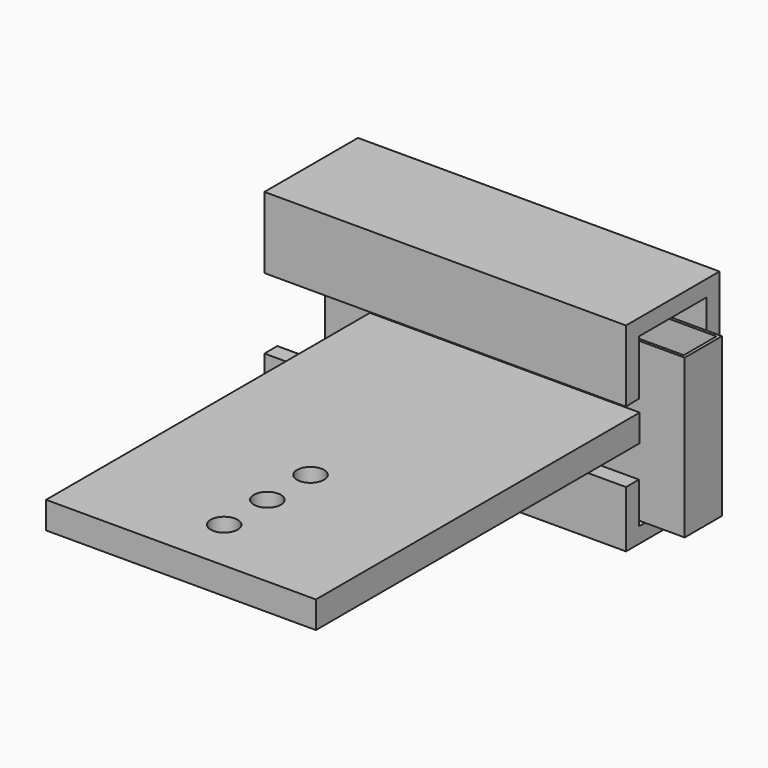
from build123d import *

# Parameters (mm, degrees)
F0_W          = 15
F0_H          = 22.5
F1_DEPTH      = 1.5
F2_W          = 5
F2_H          = 2.587675
F2_W_2        = 4.650861
F2_H_2        = 2.27039
F3_DEPTH      = 5
F3_DEPTH_BACK = 3.8
F4_R          = 0.75
F5_DEPTH      = 25
F7_DEPTH      = 7.5
F7_DEPTH_BACK = 12.6


with BuildPart() as f1:
    # F0 (on Top) → F1 (new body)
    with BuildSketch(Plane.XY):
        with Locations((0, -5.76314)):
            Rectangle(F0_W, F0_H)
    extrude(amount=F1_DEPTH)

    # F2 (on Top) → F3 (join, two sides)
    with BuildSketch(Plane.XY) as f3_sk:
        with Locations((7.5, 6.780697)):
            Rectangle(F2_W, F2_H)
        with Locations((7.50068, 6.777079)):
            Rectangle(F2_W_2, F2_H_2, mode=Mode.SUBTRACT)
        with Locations((-7.5, 6.780697)):
            Rectangle(F2_W, F2_H)
        with Locations((-7.50068, 6.777079)):
            Rectangle(F2_W_2, F2_H_2, mode=Mode.SUBTRACT)
    extrude(amount=F3_DEPTH)
    extrude(f3_sk.sketch, amount=-F3_DEPTH_BACK)

    # F4 (on Top) → F5 (cut)
    with BuildSketch(Plane.XY):
        with Locations((0, -14.01314)):
            Circle(F4_R)
        with Locations((0, -11.01314)):
            Circle(F4_R)
        with Locations((0, -8.01314)):
            Circle(F4_R)
    extrude(amount=F5_DEPTH, mode=Mode.SUBTRACT)


with BuildPart() as f7:
    # F6 (on Right) → F7 (new body, two sides)
    with BuildSketch(Plane.YZ) as f7_sk:
        Polygon((4.533626, 2.177402), (5.433626, 2.202878), (5.433626, 5.25), (10.133626, 5.25), (10.133626, -4.05), (5.433626, -4.05), (5.433626, -1.759091), (4.533626, -1.759091), (4.533626, -4.908458), (11.033626, -4.908458), (11.033626, 6.15), (4.533626, 6.15), align=None)
    extrude(amount=F7_DEPTH)
    extrude(f7_sk.sketch, amount=-F7_DEPTH_BACK)


solid = Compound([f1.part, f7.part])
